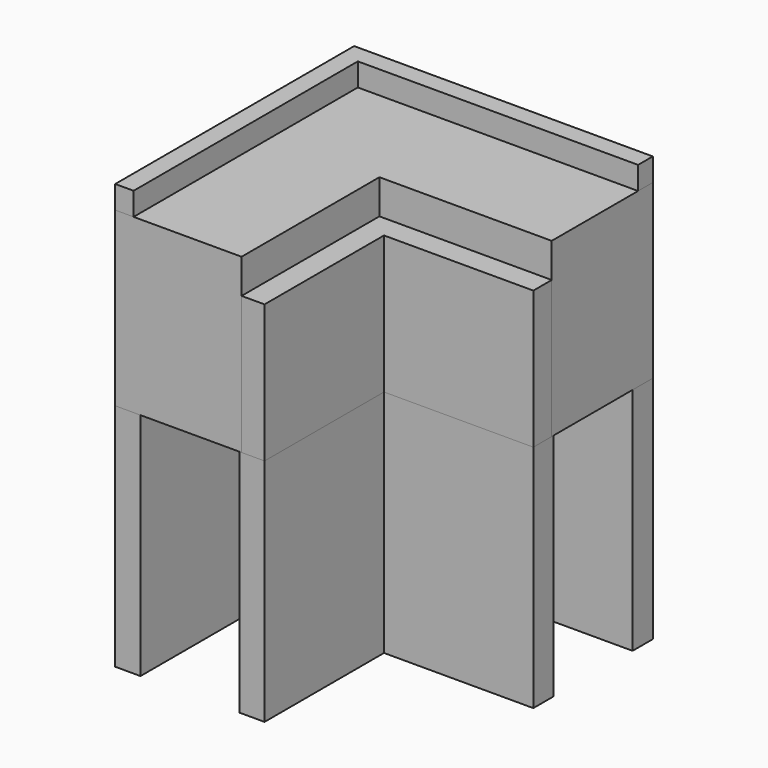
from build123d import *

# Parameters (mm, degrees)
F1_DEPTH = 20
F2_DEPTH = 12
F3_DEPTH = 17
F4_DEPTH = 15


with BuildPart() as f1:
    # F0 (on Top) → F1 (new body)
    with BuildSketch(Plane.XY):
        Polygon((-13, -13), (-11.4, -13), (-11.4, 0), (-11.4, 11.4), (0, 11.4), (13, 11.4), (13, 13), (0, 13), (-13, 13), (-13, 0), align=None)
        Polygon((-2.2, -13), (-2, -13), (-2, 2), (13, 2), (13, 2.2), (-2.2, 2.2), align=None)
        Polygon((-2, -13), (0, -13), (0, 0), (13, 0), (13, 2), (-2, 2), align=None)
        Polygon((-11.4, -13), (-10.8, -13), (-10.8, 0), (-10.8, 10.8), (0, 10.8), (13, 10.8), (13, 11.4), (0, 11.4), (-11.4, 11.4), (-11.4, 0), align=None)
    extrude(amount=-F1_DEPTH)


with BuildPart() as f2:
    # F0 (on Top) → F2 (new body)
    with BuildSketch(Plane.XY):
        Polygon((-2, -13), (0, -13), (0, 0), (13, 0), (13, 2), (-2, 2), align=None)
    extrude(amount=F2_DEPTH)


with BuildPart() as f3:
    # F0 (on Top) → F3 (new body)
    with BuildSketch(Plane.XY):
        Polygon((-13, -13), (-11.4, -13), (-11.4, 0), (-11.4, 11.4), (0, 11.4), (13, 11.4), (13, 13), (0, 13), (-13, 13), (-13, 0), align=None)
    extrude(amount=F3_DEPTH)


with BuildPart() as f4:
    # F0 (on Top) → F4 (new body)
    with BuildSketch(Plane.XY):
        Polygon((-13, -13), (-11.4, -13), (-11.4, 0), (-11.4, 11.4), (0, 11.4), (13, 11.4), (13, 13), (0, 13), (-13, 13), (-13, 0), align=None)
        Polygon((-11.4, -13), (-10.8, -13), (-10.8, 0), (-10.8, 10.8), (0, 10.8), (13, 10.8), (13, 11.4), (0, 11.4), (-11.4, 11.4), (-11.4, 0), align=None)
        Polygon((-10.8, -13), (-2.2, -13), (-2.2, 2.2), (13, 2.2), (13, 10.8), (0, 10.8), (-10.8, 10.8), (-10.8, 0), align=None)
        Polygon((-2.2, -13), (-2, -13), (-2, 2), (13, 2), (13, 2.2), (-2.2, 2.2), align=None)
    extrude(amount=F4_DEPTH)


solid = Compound([f1.part, f2.part, f3.part, f4.part])
